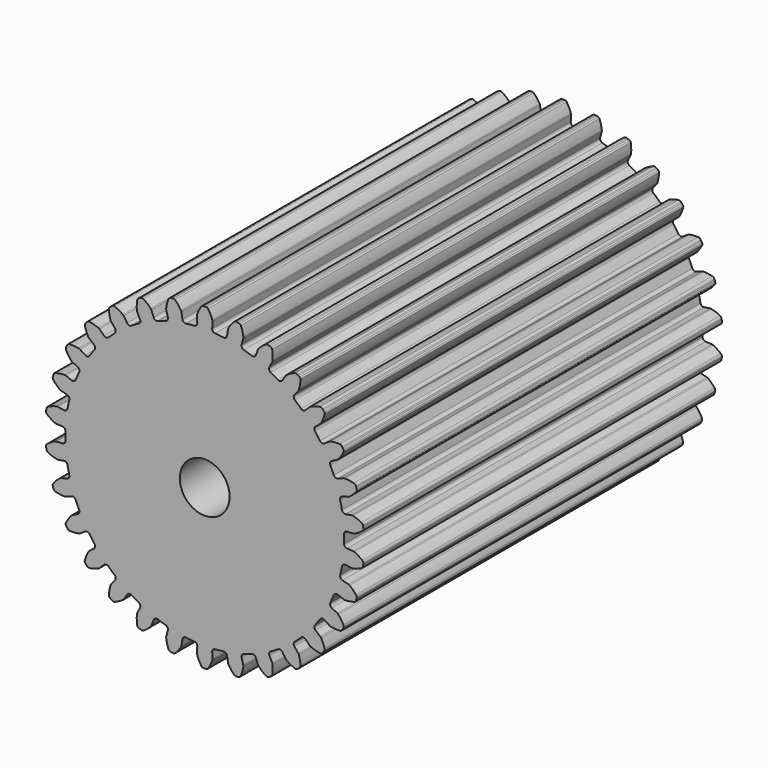
from build123d import *

# Parameters (mm, degrees)
F1_DEPTH = 114.3
F2_R     = 6.35
F3_DEPTH = 114.3


with BuildPart() as f1:
    # F0 (on Front) → F1 (new body)
    with BuildSketch(Plane.XZ):
        with BuildLine():
            ThreePointArc((-1.902155, 36.295274), (-2.099182, 35.729081), (-2.635978, 35.462166))
            ThreePointArc((-2.635978, 35.462166), (-3.717032, 35.365199), (-4.794623, 35.235283))
            ThreePointArc((-4.794623, 35.235283), (-5.375184, 35.38476), (-5.685624, 35.897615))
            Line((-5.685624, 35.897615), (-5.93658, 37.482089))
            ThreePointArc((-5.93658, 37.482089), (-5.974636, 37.629286), (-6.040058, 37.766527))
            ThreePointArc((-6.040058, 37.766527), (-6.746741, 38.786442), (-7.580008, 39.70584))
            ThreePointArc((-7.580008, 39.70584), (-7.788907, 39.827919), (-8.030583, 39.839518))
            Line((-8.030583, 39.839518), (-8.450744, 39.757623))
            Line((-8.450744, 39.757623), (-8.721103, 39.695352))
            ThreePointArc((-8.721103, 39.695352), (-9.063807, 39.520805), (-9.284229, 39.205643))
            ThreePointArc((-9.284229, 39.205643), (-9.632258, 38.098948), (-9.843162, 36.958152))
            ThreePointArc((-9.843162, 36.958152), (-9.847108, 36.806166), (-9.822004, 36.656217))
            Line((-9.822004, 36.656217), (-9.4068, 35.106655))
            ThreePointArc((-9.4068, 35.106655), (-9.481804, 34.511871), (-9.951375, 34.139182))
            ThreePointArc((-9.951375, 34.139182), (-10.988644, 33.81957), (-12.015677, 33.46845))
            ThreePointArc((-12.015677, 33.46845), (-12.614628, 33.493954), (-13.024913, 33.931059))
            Line((-13.024913, 33.931059), (-13.599816, 35.428731))
            ThreePointArc((-13.599816, 35.428731), (-13.667644, 35.564799), (-13.760171, 35.685439))
            ThreePointArc((-13.760171, 35.685439), (-14.663463, 36.536139), (-15.669675, 37.2622))
            ThreePointArc((-15.669675, 37.2622), (-15.899391, 37.338179), (-16.138197, 37.299277))
            Line((-16.138197, 37.299277), (-16.532149, 37.131815))
            Line((-16.532149, 37.131815), (-16.783654, 37.014694))
            ThreePointArc((-16.783654, 37.014694), (-17.082578, 36.772709), (-17.232658, 36.418606))
            ThreePointArc((-17.232658, 36.418606), (-17.342987, 35.263736), (-17.312098, 34.104019))
            ThreePointArc((-17.312098, 34.104019), (-17.284358, 33.954534), (-17.228625, 33.813081))
            Line((-17.228625, 33.813081), (-16.500323, 32.383707))
            ThreePointArc((-16.500323, 32.383707), (-16.450025, 31.786326), (-16.831848, 31.324152))
            ThreePointArc((-16.831848, 31.324152), (-17.78, 30.795863), (-18.711587, 30.238884))
            ThreePointArc((-18.711587, 30.238884), (-19.302753, 30.139302), (-19.794951, 30.481552))
            Line((-19.794951, 30.481552), (-20.668674, 31.826968))
            ThreePointArc((-20.668674, 31.826968), (-20.763311, 31.94596), (-20.878898, 32.044726))
            ThreePointArc((-20.878898, 32.044726), (-21.939321, 32.689032), (-23.074502, 33.190023))
            ThreePointArc((-23.074502, 33.190023), (-23.314995, 33.216581), (-23.540495, 33.128878))
            Line((-23.540495, 33.128878), (-23.891021, 32.883169))
            Line((-23.891021, 32.883169), (-24.112678, 32.716316))
            ThreePointArc((-24.112678, 32.716316), (-24.354759, 32.417469), (-24.427937, 32.039901))
            ThreePointArc((-24.427937, 32.039901), (-24.295744, 30.887329), (-24.024411, 29.759377))
            ThreePointArc((-24.024411, 29.759377), (-23.966198, 29.618926), (-23.882273, 29.492151))
            Line((-23.882273, 29.492151), (-22.872702, 28.245435))
            ThreePointArc((-22.872702, 28.245435), (-22.699301, 27.671566), (-22.976689, 27.140106))
            ThreePointArc((-22.976689, 27.140106), (-23.794284, 26.42623), (-24.589712, 25.687734))
            ThreePointArc((-24.589712, 25.687734), (-25.147255, 25.467418), (-25.699855, 25.699855))
            Line((-25.699855, 25.699855), (-26.834213, 26.834213))
            ThreePointArc((-26.834213, 26.834213), (-26.951521, 26.930929), (-27.085117, 27.003505))
            ThreePointArc((-27.085117, 27.003505), (-28.256326, 27.413256), (-29.470863, 27.667282))
            ThreePointArc((-29.470863, 27.667282), (-29.711622, 27.643259), (-29.913959, 27.510588))
            Line((-29.913959, 27.510588), (-30.20574, 27.19737))
            Line((-30.20574, 27.19737), (-30.387863, 26.988078))
            ThreePointArc((-30.387863, 26.988078), (-30.56252, 26.64543), (-30.555598, 26.260898))
            ThreePointArc((-30.555598, 26.260898), (-30.186661, 25.160997), (-29.686742, 24.114107))
            ThreePointArc((-29.686742, 24.114107), (-29.6006, 23.988829), (-29.492151, 23.882273))
            Line((-29.492151, 23.882273), (-28.245435, 22.872702))
            ThreePointArc((-28.245435, 22.872702), (-27.956509, 22.347426), (-28.117339, 21.769907))
            ThreePointArc((-28.117339, 21.769907), (-28.768644, 20.901644), (-29.393148, 20.013907))
            ThreePointArc((-29.393148, 20.013907), (-29.892701, 19.682486), (-30.481552, 19.794951))
            Line((-30.481552, 19.794951), (-31.826968, 20.668674))
            ThreePointArc((-31.826968, 20.668674), (-31.961821, 20.738887), (-32.107587, 20.782101))
            ThreePointArc((-32.107587, 20.782101), (-33.338394, 20.93939), (-34.579205, 20.935349))
            ThreePointArc((-34.579205, 20.935349), (-34.809708, 20.861794), (-34.980041, 20.689954))
            Line((-34.980041, 20.689954), (-35.200323, 20.322916))
            Line((-35.200323, 20.322916), (-35.334952, 20.080332))
            ThreePointArc((-35.334952, 20.080332), (-35.434552, 19.708859), (-35.347833, 19.334169))
            ThreePointArc((-35.347833, 19.334169), (-34.758275, 18.33501), (-34.051621, 17.414935))
            ThreePointArc((-34.051621, 17.414935), (-33.941314, 17.310305), (-33.813081, 17.228625))
            Line((-33.813081, 17.228625), (-32.383707, 16.500323))
            ThreePointArc((-32.383707, 16.500323), (-31.991883, 16.046596), (-32.029126, 15.448259))
            ThreePointArc((-32.029126, 15.448259), (-32.485676, 14.463555), (-32.911962, 13.465376))
            ThreePointArc((-32.911962, 13.465376), (-33.331693, 13.037334), (-33.931059, 13.024913))
            Line((-33.931059, 13.024913), (-35.428731, 13.599816))
            ThreePointArc((-35.428731, 13.599816), (-35.575235, 13.640457), (-35.726801, 13.652419))
            ThreePointArc((-35.726801, 13.652419), (-36.963415, 13.550372), (-38.17627, 13.28844))
            ThreePointArc((-38.17627, 13.28844), (-38.386443, 13.168568), (-38.517326, 12.96507))
            Line((-38.517326, 12.96507), (-38.656484, 12.560253))
            Line((-38.656484, 12.560253), (-38.737735, 12.294979))
            ThreePointArc((-38.737735, 12.294979), (-38.757924, 11.910915), (-38.595198, 11.562443))
            ThreePointArc((-38.595198, 11.562443), (-37.810786, 10.707694), (-36.92828, 9.954647))
            ThreePointArc((-36.92828, 9.954647), (-36.798629, 9.875237), (-36.656217, 9.822004))
            Line((-36.656217, 9.822004), (-35.106655, 9.4068))
            ThreePointArc((-35.106655, 9.4068), (-34.629059, 9.044452), (-34.541086, 8.451448))
            Line((-34.541086, 8.451448), (-34.992366, 6.328344))
            ThreePointArc((-34.992366, 6.328344), (-35.31393, 5.822389), (-35.897615, 5.685624))
            Line((-35.897615, 5.685624), (-37.482089, 5.93658))
            ThreePointArc((-37.482089, 5.93658), (-37.633841, 5.945873), (-37.784582, 5.926062))
            ThreePointArc((-37.784582, 5.926062), (-38.972956, 5.569138), (-40.104849, 5.060763))
            ThreePointArc((-40.104849, 5.060763), (-40.285507, 4.899813), (-40.37122, 4.673549))
            Line((-40.37122, 4.673549), (-40.42317, 4.248646))
            Line((-40.42317, 4.248646), (-40.447492, 3.972276))
            ThreePointArc((-40.447492, 3.972276), (-40.387389, 3.592407), (-40.155767, 3.285383))
            ThreePointArc((-40.155767, 3.285383), (-39.210785, 2.612401), (-38.190996, 2.059293))
            ThreePointArc((-38.190996, 2.059293), (-38.047668, 2.008575), (-37.8973, 1.986113))
            Line((-37.8973, 1.986113), (-36.295274, 1.902155))
            ThreePointArc((-36.295274, 1.902155), (-35.752778, 1.647023), (-35.543435, 1.085268))
            ThreePointArc((-35.543435, 1.085268), (-35.56, 0), (-35.543435, -1.085268))
            ThreePointArc((-35.543435, -1.085268), (-35.752778, -1.647023), (-36.295274, -1.902155))
            Line((-36.295274, -1.902155), (-37.8973, -1.986113))
            ThreePointArc((-37.8973, -1.986113), (-38.047668, -2.008575), (-38.190996, -2.059293))
            ThreePointArc((-38.190996, -2.059293), (-39.279192, -2.655494), (-40.280654, -3.388094))
            ThreePointArc((-40.280654, -3.388094), (-40.4239, -3.583087), (-40.460697, -3.822227))
            Line((-40.460697, -3.822227), (-40.42317, -4.248646))
            Line((-40.42317, -4.248646), (-40.3895, -4.524034))
            ThreePointArc((-40.3895, -4.524034), (-40.251731, -4.883106), (-39.961337, -5.135264))
            ThreePointArc((-39.961337, -5.135264), (-38.897084, -5.597067), (-37.784582, -5.926062))
            ThreePointArc((-37.784582, -5.926062), (-37.633841, -5.945873), (-37.482089, -5.93658))
            Line((-37.482089, -5.93658), (-35.897615, -5.685624))
            ThreePointArc((-35.897615, -5.685624), (-35.31393, -5.822389), (-34.992366, -6.328344))
            ThreePointArc((-34.992366, -6.328344), (-34.782929, -7.39334), (-34.541086, -8.451448))
            ThreePointArc((-34.541086, -8.451448), (-34.629059, -9.044452), (-35.106655, -9.4068))
            Line((-35.106655, -9.4068), (-36.656217, -9.822004))
            ThreePointArc((-36.656217, -9.822004), (-36.798629, -9.875237), (-36.92828, -9.954647))
            ThreePointArc((-36.92828, -9.954647), (-37.86874, -10.764068), (-38.696001, -11.688874))
            ThreePointArc((-38.696001, -11.688874), (-38.795575, -11.90939), (-38.781848, -12.150955))
            Line((-38.781848, -12.150955), (-38.656484, -12.560253))
            Line((-38.656484, -12.560253), (-38.566293, -12.822622))
            ThreePointArc((-38.566293, -12.822622), (-38.35688, -13.145204), (-38.020404, -13.331475))
            ThreePointArc((-38.020404, -13.331475), (-36.883393, -13.561916), (-35.726801, -13.652419))
            ThreePointArc((-35.726801, -13.652419), (-35.575235, -13.640457), (-35.428731, -13.599816))
            Line((-35.428731, -13.599816), (-33.931059, -13.024913))
            ThreePointArc((-33.931059, -13.024913), (-33.331693, -13.037334), (-32.911962, -13.465376))
            ThreePointArc((-32.911962, -13.465376), (-32.485676, -14.463555), (-32.029126, -15.448259))
            ThreePointArc((-32.029126, -15.448259), (-31.991883, -16.046596), (-32.383707, -16.500323))
            Line((-32.383707, -16.500323), (-33.813081, -17.228625))
            ThreePointArc((-33.813081, -17.228625), (-33.941314, -17.310305), (-34.051621, -17.414935))
            ThreePointArc((-34.051621, -17.414935), (-34.803241, -18.402201), (-35.420146, -19.478795))
            ThreePointArc((-35.420146, -19.478795), (-35.471697, -19.715195), (-35.408046, -19.948627))
            Line((-35.408046, -19.948627), (-35.200323, -20.322916))
            Line((-35.200323, -20.322916), (-35.057554, -20.5608))
            ThreePointArc((-35.057554, -20.5608), (-34.785648, -20.832793), (-34.417798, -20.945037))
            ThreePointArc((-34.417798, -20.945037), (-33.257722, -20.934045), (-32.107587, -20.782101))
            ThreePointArc((-32.107587, -20.782101), (-31.961821, -20.738887), (-31.826968, -20.668674))
            Line((-31.826968, -20.668674), (-30.481552, -19.794951))
            ThreePointArc((-30.481552, -19.794951), (-29.892701, -19.682486), (-29.393148, -20.013907))
            ThreePointArc((-29.393148, -20.013907), (-28.768644, -20.901644), (-28.117339, -21.769907))
            ThreePointArc((-28.117339, -21.769907), (-27.956509, -22.347426), (-28.245435, -22.872702))
            Line((-28.245435, -22.872702), (-29.492151, -23.882273))
            ThreePointArc((-29.492151, -23.882273), (-29.6006, -23.988829), (-29.686742, -24.114107))
            ThreePointArc((-29.686742, -24.114107), (-30.216674, -25.23607), (-30.596262, -26.4174))
            ThreePointArc((-30.596262, -26.4174), (-30.597536, -26.659351), (-30.486743, -26.874448))
            Line((-30.486743, -26.874448), (-30.20574, -27.19737))
            Line((-30.20574, -27.19737), (-30.016632, -27.400373))
            ThreePointArc((-30.016632, -27.400373), (-29.694117, -27.609889), (-29.310968, -27.6432))
            ThreePointArc((-29.310968, -27.6432), (-28.178528, -27.391255), (-27.085117, -27.003505))
            ThreePointArc((-27.085117, -27.003505), (-26.951521, -26.930929), (-26.834213, -26.834213))
            Line((-26.834213, -26.834213), (-25.699855, -25.699855))
            ThreePointArc((-25.699855, -25.699855), (-25.147255, -25.467418), (-24.589712, -25.687734))
            ThreePointArc((-24.589712, -25.687734), (-23.794284, -26.42623), (-22.976689, -27.140106))
            ThreePointArc((-22.976689, -27.140106), (-22.699301, -27.671566), (-22.872702, -28.245435))
            Line((-22.872702, -28.245435), (-23.882273, -29.492151))
            ThreePointArc((-23.882273, -29.492151), (-23.966198, -29.618926), (-24.024411, -29.759377))
            ThreePointArc((-24.024411, -29.759377), (-24.309493, -30.967001), (-24.435174, -32.201437))
            ThreePointArc((-24.435174, -32.201437), (-24.386116, -32.438365), (-24.233022, -32.625727))
            Line((-24.233022, -32.625727), (-23.891021, -32.883169))
            Line((-23.891021, -32.883169), (-23.663838, -33.042418))
            ThreePointArc((-23.663838, -33.042418), (-23.304811, -33.180301), (-22.923109, -33.133223))
            ThreePointArc((-22.923109, -33.133223), (-21.867798, -32.651335), (-20.878898, -32.044726))
            ThreePointArc((-20.878898, -32.044726), (-20.763311, -31.94596), (-20.668674, -31.826968))
            Line((-20.668674, -31.826968), (-19.794951, -30.481552))
            ThreePointArc((-19.794951, -30.481552), (-19.302753, -30.139302), (-18.711587, -30.238884))
            ThreePointArc((-18.711587, -30.238884), (-17.78, -30.795863), (-16.831848, -31.324152))
            ThreePointArc((-16.831848, -31.324152), (-16.450025, -31.786326), (-16.500323, -32.383707))
            Line((-16.500323, -32.383707), (-17.228625, -33.813081))
            ThreePointArc((-17.228625, -33.813081), (-17.284358, -33.954534), (-17.312098, -34.104019))
            ThreePointArc((-17.312098, -34.104019), (-17.339871, -35.344525), (-17.206152, -36.578116))
            ThreePointArc((-17.206152, -36.578116), (-17.108905, -36.799668), (-16.920203, -36.951105))
            Line((-16.920203, -36.951105), (-16.532149, -37.131815))
            Line((-16.532149, -37.131815), (-16.276822, -37.24035))
            ThreePointArc((-16.276822, -37.24035), (-15.896972, -37.300575), (-15.533399, -37.175165))
            ThreePointArc((-15.533399, -37.175165), (-14.601339, -36.484396), (-13.760171, -35.685439))
            ThreePointArc((-13.760171, -35.685439), (-13.667644, -35.564799), (-13.599816, -35.428731))
            Line((-13.599816, -35.428731), (-13.024913, -33.931059))
            ThreePointArc((-13.024913, -33.931059), (-12.614628, -33.493954), (-12.015677, -33.46845))
            ThreePointArc((-12.015677, -33.46845), (-10.988644, -33.81957), (-9.951375, -34.139182))
            ThreePointArc((-9.951375, -34.139182), (-9.481804, -34.511871), (-9.4068, -35.106655))
            Line((-9.4068, -35.106655), (-9.822004, -36.656217))
            ThreePointArc((-9.822004, -36.656217), (-9.847108, -36.806166), (-9.843162, -36.958152))
            ThreePointArc((-9.843162, -36.958152), (-9.612413, -38.177325), (-9.225138, -39.356157))
            ThreePointArc((-9.225138, -39.356157), (-9.083954, -39.552648), (-8.867889, -39.661543))
            Line((-8.867889, -39.661543), (-8.450744, -39.757623))
            Line((-8.450744, -39.757623), (-8.17843, -39.810701))
            ThreePointArc((-8.17843, -39.810701), (-7.79436, -39.790634), (-7.464806, -39.592373))
            ThreePointArc((-7.464806, -39.592373), (-6.696733, -38.722914), (-6.040058, -37.766527))
            ThreePointArc((-6.040058, -37.766527), (-5.974636, -37.629286), (-5.93658, -37.482089))
            Line((-5.93658, -37.482089), (-5.685624, -35.897615))
            ThreePointArc((-5.685624, -35.897615), (-5.375184, -35.38476), (-4.794623, -35.235283))
            ThreePointArc((-4.794623, -35.235283), (-3.717032, -35.365199), (-2.635978, -35.462166))
            ThreePointArc((-2.635978, -35.462166), (-2.099182, -35.729081), (-1.902155, -36.295274))
            Line((-1.902155, -36.295274), (-1.986113, -37.8973))
            ThreePointArc((-1.986113, -37.8973), (-1.979493, -38.049192), (-1.944034, -38.197036))
            ThreePointArc((-1.944034, -38.197036), (-1.464847, -39.341592), (-0.840942, -40.414144))
            ThreePointArc((-0.840942, -40.414144), (-0.661989, -40.576988), (-0.428006, -40.638581))
            Line((-0.428006, -40.638581), (0, -40.645832))
            Line((0, -40.645832), (0.277398, -40.641133))
            ThreePointArc((0.277398, -40.641133), (0.648904, -40.541652), (0.930035, -40.279206))
            ThreePointArc((0.930035, -40.279206), (1.500554, -39.269054), (1.944034, -38.197036))
            ThreePointArc((1.944034, -38.197036), (1.979493, -38.049192), (1.986113, -37.8973))
            Line((1.986113, -37.8973), (1.902155, -36.295274))
            ThreePointArc((1.902155, -36.295274), (2.099182, -35.729081), (2.635978, -35.462166))
            ThreePointArc((2.635978, -35.462166), (3.717032, -35.365199), (4.794623, -35.235283))
            ThreePointArc((4.794623, -35.235283), (5.375184, -35.38476), (5.685624, -35.897615))
            Line((5.685624, -35.897615), (5.93658, -37.482089))
            ThreePointArc((5.93658, -37.482089), (5.974636, -37.629286), (6.040058, -37.766527))
            ThreePointArc((6.040058, -37.766527), (6.746741, -38.786442), (7.580008, -39.70584))
            ThreePointArc((7.580008, -39.70584), (7.788907, -39.827919), (8.030583, -39.839518))
            Line((8.030583, -39.839518), (8.450744, -39.757623))
            Line((8.450744, -39.757623), (8.721103, -39.695352))
            ThreePointArc((8.721103, -39.695352), (9.063807, -39.520805), (9.284229, -39.205643))
            ThreePointArc((9.284229, -39.205643), (9.632258, -38.098948), (9.843162, -36.958152))
            ThreePointArc((9.843162, -36.958152), (9.847108, -36.806166), (9.822004, -36.656217))
            Line((9.822004, -36.656217), (9.4068, -35.106655))
            ThreePointArc((9.4068, -35.106655), (9.481804, -34.511871), (9.951375, -34.139182))
            ThreePointArc((9.951375, -34.139182), (10.988644, -33.81957), (12.015677, -33.46845))
            ThreePointArc((12.015677, -33.46845), (12.614628, -33.493954), (13.024913, -33.931059))
            Line((13.024913, -33.931059), (13.599816, -35.428731))
            ThreePointArc((13.599816, -35.428731), (13.667644, -35.564799), (13.760171, -35.685439))
            ThreePointArc((13.760171, -35.685439), (14.663463, -36.536139), (15.669675, -37.2622))
            ThreePointArc((15.669675, -37.2622), (15.899391, -37.338179), (16.138197, -37.299277))
            Line((16.138197, -37.299277), (16.532149, -37.131815))
            Line((16.532149, -37.131815), (16.783654, -37.014694))
            ThreePointArc((16.783654, -37.014694), (17.082578, -36.772709), (17.232658, -36.418606))
            ThreePointArc((17.232658, -36.418606), (17.342987, -35.263736), (17.312098, -34.104019))
            ThreePointArc((17.312098, -34.104019), (17.284358, -33.954534), (17.228625, -33.813081))
            Line((17.228625, -33.813081), (16.500323, -32.383707))
            ThreePointArc((16.500323, -32.383707), (16.450025, -31.786326), (16.831848, -31.324152))
            ThreePointArc((16.831848, -31.324152), (17.78, -30.795863), (18.711587, -30.238884))
            ThreePointArc((18.711587, -30.238884), (19.302753, -30.139302), (19.794951, -30.481552))
            Line((19.794951, -30.481552), (20.668674, -31.826968))
            ThreePointArc((20.668674, -31.826968), (20.763311, -31.94596), (20.878898, -32.044726))
            ThreePointArc((20.878898, -32.044726), (21.939321, -32.689032), (23.074502, -33.190023))
            ThreePointArc((23.074502, -33.190023), (23.314995, -33.216581), (23.540495, -33.128878))
            Line((23.540495, -33.128878), (23.891021, -32.883169))
            Line((23.891021, -32.883169), (24.112678, -32.716316))
            ThreePointArc((24.112678, -32.716316), (24.354759, -32.417469), (24.427937, -32.039901))
            ThreePointArc((24.427937, -32.039901), (24.295744, -30.887329), (24.024411, -29.759377))
            ThreePointArc((24.024411, -29.759377), (23.966198, -29.618926), (23.882273, -29.492151))
            Line((23.882273, -29.492151), (22.872702, -28.245435))
            ThreePointArc((22.872702, -28.245435), (22.699301, -27.671566), (22.976689, -27.140106))
            ThreePointArc((22.976689, -27.140106), (23.794284, -26.42623), (24.589712, -25.687734))
            ThreePointArc((24.589712, -25.687734), (25.147255, -25.467418), (25.699855, -25.699855))
            Line((25.699855, -25.699855), (26.834213, -26.834213))
            ThreePointArc((26.834213, -26.834213), (26.951521, -26.930929), (27.085117, -27.003505))
            ThreePointArc((27.085117, -27.003505), (28.256326, -27.413256), (29.470863, -27.667282))
            ThreePointArc((29.470863, -27.667282), (29.711622, -27.643259), (29.913959, -27.510588))
            Line((29.913959, -27.510588), (30.20574, -27.19737))
            Line((30.20574, -27.19737), (30.387863, -26.988078))
            ThreePointArc((30.387863, -26.988078), (30.56252, -26.64543), (30.555598, -26.260898))
            ThreePointArc((30.555598, -26.260898), (30.186661, -25.160997), (29.686742, -24.114107))
            ThreePointArc((29.686742, -24.114107), (29.6006, -23.988829), (29.492151, -23.882273))
            Line((29.492151, -23.882273), (28.245435, -22.872702))
            ThreePointArc((28.245435, -22.872702), (27.956509, -22.347426), (28.117339, -21.769907))
            ThreePointArc((28.117339, -21.769907), (28.768644, -20.901644), (29.393148, -20.013907))
            ThreePointArc((29.393148, -20.013907), (29.892701, -19.682486), (30.481552, -19.794951))
            Line((30.481552, -19.794951), (31.826968, -20.668674))
            ThreePointArc((31.826968, -20.668674), (31.961821, -20.738887), (32.107587, -20.782101))
            ThreePointArc((32.107587, -20.782101), (33.338394, -20.93939), (34.579205, -20.935349))
            ThreePointArc((34.579205, -20.935349), (34.809708, -20.861794), (34.980041, -20.689954))
            Line((34.980041, -20.689954), (35.200323, -20.322916))
            Line((35.200323, -20.322916), (35.334952, -20.080332))
            ThreePointArc((35.334952, -20.080332), (35.434552, -19.708859), (35.347833, -19.334169))
            ThreePointArc((35.347833, -19.334169), (34.758275, -18.33501), (34.051621, -17.414935))
            ThreePointArc((34.051621, -17.414935), (33.941314, -17.310305), (33.813081, -17.228625))
            Line((33.813081, -17.228625), (32.383707, -16.500323))
            ThreePointArc((32.383707, -16.500323), (31.991883, -16.046596), (32.029126, -15.448259))
            ThreePointArc((32.029126, -15.448259), (32.485676, -14.463555), (32.911962, -13.465376))
            ThreePointArc((32.911962, -13.465376), (33.331693, -13.037334), (33.931059, -13.024913))
            Line((33.931059, -13.024913), (35.428731, -13.599816))
            ThreePointArc((35.428731, -13.599816), (35.575235, -13.640457), (35.726801, -13.652419))
            ThreePointArc((35.726801, -13.652419), (36.963415, -13.550372), (38.17627, -13.28844))
            ThreePointArc((38.17627, -13.28844), (38.386443, -13.168568), (38.517326, -12.96507))
            Line((38.517326, -12.96507), (38.656484, -12.560253))
            Line((38.656484, -12.560253), (38.737735, -12.294979))
            ThreePointArc((38.737735, -12.294979), (38.757924, -11.910915), (38.595198, -11.562443))
            ThreePointArc((38.595198, -11.562443), (37.810786, -10.707694), (36.92828, -9.954647))
            ThreePointArc((36.92828, -9.954647), (36.798629, -9.875237), (36.656217, -9.822004))
            Line((36.656217, -9.822004), (35.106655, -9.4068))
            ThreePointArc((35.106655, -9.4068), (34.629059, -9.044452), (34.541086, -8.451448))
            ThreePointArc((34.541086, -8.451448), (34.782929, -7.39334), (34.992366, -6.328344))
            ThreePointArc((34.992366, -6.328344), (35.31393, -5.822389), (35.897615, -5.685624))
            Line((35.897615, -5.685624), (37.482089, -5.93658))
            ThreePointArc((37.482089, -5.93658), (37.633841, -5.945873), (37.784582, -5.926062))
            ThreePointArc((37.784582, -5.926062), (38.972956, -5.569138), (40.104849, -5.060763))
            ThreePointArc((40.104849, -5.060763), (40.285507, -4.899813), (40.37122, -4.673549))
            Line((40.37122, -4.673549), (40.42317, -4.248646))
            Line((40.42317, -4.248646), (40.447492, -3.972276))
            ThreePointArc((40.447492, -3.972276), (40.387389, -3.592407), (40.155767, -3.285383))
            ThreePointArc((40.155767, -3.285383), (39.210785, -2.612401), (38.190996, -2.059293))
            ThreePointArc((38.190996, -2.059293), (38.047668, -2.008575), (37.8973, -1.986113))
            Line((37.8973, -1.986113), (36.295274, -1.902155))
            ThreePointArc((36.295274, -1.902155), (35.752778, -1.647023), (35.543435, -1.085268))
            ThreePointArc((35.543435, -1.085268), (35.56, 0), (35.543435, 1.085268))
            ThreePointArc((35.543435, 1.085268), (35.752778, 1.647023), (36.295274, 1.902155))
            Line((36.295274, 1.902155), (37.8973, 1.986113))
            ThreePointArc((37.8973, 1.986113), (38.047668, 2.008575), (38.190996, 2.059293))
            ThreePointArc((38.190996, 2.059293), (39.279192, 2.655494), (40.280654, 3.388094))
            ThreePointArc((40.280654, 3.388094), (40.4239, 3.583087), (40.460697, 3.822227))
            Line((40.460697, 3.822227), (40.42317, 4.248646))
            Line((40.42317, 4.248646), (40.3895, 4.524034))
            ThreePointArc((40.3895, 4.524034), (40.251731, 4.883106), (39.961337, 5.135264))
            ThreePointArc((39.961337, 5.135264), (38.897084, 5.597067), (37.784582, 5.926062))
            ThreePointArc((37.784582, 5.926062), (37.633841, 5.945873), (37.482089, 5.93658))
            Line((37.482089, 5.93658), (35.897615, 5.685624))
            ThreePointArc((35.897615, 5.685624), (35.31393, 5.822389), (34.992366, 6.328344))
            ThreePointArc((34.992366, 6.328344), (34.782929, 7.39334), (34.541086, 8.451448))
            ThreePointArc((34.541086, 8.451448), (34.629059, 9.044452), (35.106655, 9.4068))
            Line((35.106655, 9.4068), (36.656217, 9.822004))
            ThreePointArc((36.656217, 9.822004), (36.798629, 9.875237), (36.92828, 9.954647))
            ThreePointArc((36.92828, 9.954647), (37.86874, 10.764068), (38.696001, 11.688874))
            ThreePointArc((38.696001, 11.688874), (38.795575, 11.90939), (38.781848, 12.150955))
            Line((38.781848, 12.150955), (38.656484, 12.560253))
            Line((38.656484, 12.560253), (38.566293, 12.822622))
            ThreePointArc((38.566293, 12.822622), (38.35688, 13.145204), (38.020404, 13.331475))
            ThreePointArc((38.020404, 13.331475), (36.883393, 13.561916), (35.726801, 13.652419))
            ThreePointArc((35.726801, 13.652419), (35.575235, 13.640457), (35.428731, 13.599816))
            Line((35.428731, 13.599816), (33.931059, 13.024913))
            ThreePointArc((33.931059, 13.024913), (33.331693, 13.037334), (32.911962, 13.465376))
            Line((32.911962, 13.465376), (32.029126, 15.448259))
            ThreePointArc((32.029126, 15.448259), (31.991883, 16.046596), (32.383707, 16.500323))
            Line((32.383707, 16.500323), (33.813081, 17.228625))
            ThreePointArc((33.813081, 17.228625), (33.941314, 17.310305), (34.051621, 17.414935))
            ThreePointArc((34.051621, 17.414935), (34.803241, 18.402201), (35.420146, 19.478795))
            ThreePointArc((35.420146, 19.478795), (35.471697, 19.715195), (35.408046, 19.948627))
            Line((35.408046, 19.948627), (35.200323, 20.322916))
            Line((35.200323, 20.322916), (35.057554, 20.5608))
            ThreePointArc((35.057554, 20.5608), (34.785648, 20.832793), (34.417798, 20.945037))
            ThreePointArc((34.417798, 20.945037), (33.257722, 20.934045), (32.107587, 20.782101))
            ThreePointArc((32.107587, 20.782101), (31.961821, 20.738887), (31.826968, 20.668674))
            Line((31.826968, 20.668674), (30.481552, 19.794951))
            ThreePointArc((30.481552, 19.794951), (29.892701, 19.682486), (29.393148, 20.013907))
            ThreePointArc((29.393148, 20.013907), (28.768644, 20.901644), (28.117339, 21.769907))
            ThreePointArc((28.117339, 21.769907), (27.956509, 22.347426), (28.245435, 22.872702))
            Line((28.245435, 22.872702), (29.492151, 23.882273))
            ThreePointArc((29.492151, 23.882273), (29.6006, 23.988829), (29.686742, 24.114107))
            ThreePointArc((29.686742, 24.114107), (30.216674, 25.23607), (30.596262, 26.4174))
            ThreePointArc((30.596262, 26.4174), (30.597536, 26.659351), (30.486743, 26.874448))
            Line((30.486743, 26.874448), (30.20574, 27.19737))
            Line((30.20574, 27.19737), (30.016632, 27.400373))
            ThreePointArc((30.016632, 27.400373), (29.694117, 27.609889), (29.310968, 27.6432))
            ThreePointArc((29.310968, 27.6432), (28.178528, 27.391255), (27.085117, 27.003505))
            ThreePointArc((27.085117, 27.003505), (26.951521, 26.930929), (26.834213, 26.834213))
            Line((26.834213, 26.834213), (25.699855, 25.699855))
            ThreePointArc((25.699855, 25.699855), (25.147255, 25.467418), (24.589712, 25.687734))
            ThreePointArc((24.589712, 25.687734), (23.794284, 26.42623), (22.976689, 27.140106))
            ThreePointArc((22.976689, 27.140106), (22.699301, 27.671566), (22.872702, 28.245435))
            Line((22.872702, 28.245435), (23.882273, 29.492151))
            ThreePointArc((23.882273, 29.492151), (23.966198, 29.618926), (24.024411, 29.759377))
            ThreePointArc((24.024411, 29.759377), (24.309493, 30.967001), (24.435174, 32.201437))
            ThreePointArc((24.435174, 32.201437), (24.386116, 32.438365), (24.233022, 32.625727))
            Line((24.233022, 32.625727), (23.891021, 32.883169))
            Line((23.891021, 32.883169), (23.663838, 33.042418))
            ThreePointArc((23.663838, 33.042418), (23.304811, 33.180301), (22.923109, 33.133223))
            ThreePointArc((22.923109, 33.133223), (21.867798, 32.651335), (20.878898, 32.044726))
            ThreePointArc((20.878898, 32.044726), (20.763311, 31.94596), (20.668674, 31.826968))
            Line((20.668674, 31.826968), (19.794951, 30.481552))
            ThreePointArc((19.794951, 30.481552), (19.302753, 30.139302), (18.711587, 30.238884))
            ThreePointArc((18.711587, 30.238884), (17.78, 30.795863), (16.831848, 31.324152))
            ThreePointArc((16.831848, 31.324152), (16.450025, 31.786326), (16.500323, 32.383707))
            Line((16.500323, 32.383707), (17.228625, 33.813081))
            ThreePointArc((17.228625, 33.813081), (17.284358, 33.954534), (17.312098, 34.104019))
            ThreePointArc((17.312098, 34.104019), (17.339871, 35.344525), (17.206152, 36.578116))
            ThreePointArc((17.206152, 36.578116), (17.108905, 36.799668), (16.920203, 36.951105))
            Line((16.920203, 36.951105), (16.532149, 37.131815))
            Line((16.532149, 37.131815), (16.276822, 37.24035))
            ThreePointArc((16.276822, 37.24035), (15.896972, 37.300575), (15.533399, 37.175165))
            ThreePointArc((15.533399, 37.175165), (14.601339, 36.484396), (13.760171, 35.685439))
            ThreePointArc((13.760171, 35.685439), (13.667644, 35.564799), (13.599816, 35.428731))
            Line((13.599816, 35.428731), (13.024913, 33.931059))
            ThreePointArc((13.024913, 33.931059), (12.614628, 33.493954), (12.015677, 33.46845))
            ThreePointArc((12.015677, 33.46845), (10.988644, 33.81957), (9.951375, 34.139182))
            ThreePointArc((9.951375, 34.139182), (9.481804, 34.511871), (9.4068, 35.106655))
            Line((9.4068, 35.106655), (9.822004, 36.656217))
            ThreePointArc((9.822004, 36.656217), (9.847108, 36.806166), (9.843162, 36.958152))
            ThreePointArc((9.843162, 36.958152), (9.612413, 38.177325), (9.225138, 39.356157))
            ThreePointArc((9.225138, 39.356157), (9.083954, 39.552648), (8.867889, 39.661543))
            Line((8.867889, 39.661543), (8.450744, 39.757623))
            Line((8.450744, 39.757623), (8.17843, 39.810701))
            ThreePointArc((8.17843, 39.810701), (7.79436, 39.790634), (7.464806, 39.592373))
            ThreePointArc((7.464806, 39.592373), (6.696733, 38.722914), (6.040058, 37.766527))
            ThreePointArc((6.040058, 37.766527), (5.974636, 37.629286), (5.93658, 37.482089))
            Line((5.93658, 37.482089), (5.685624, 35.897615))
            ThreePointArc((5.685624, 35.897615), (5.375184, 35.38476), (4.794623, 35.235283))
            ThreePointArc((4.794623, 35.235283), (3.717032, 35.365199), (2.635978, 35.462166))
            ThreePointArc((2.635978, 35.462166), (2.099182, 35.729081), (1.902155, 36.295274))
            Line((1.902155, 36.295274), (1.986113, 37.8973))
            ThreePointArc((1.986113, 37.8973), (1.979493, 38.049192), (1.944034, 38.197036))
            ThreePointArc((1.944034, 38.197036), (1.464847, 39.341592), (0.840942, 40.414144))
            ThreePointArc((0.840942, 40.414144), (0.661989, 40.576988), (0.428006, 40.638581))
            Line((0.428006, 40.638581), (0, 40.645832))
            Line((0, 40.645832), (-0.277398, 40.641133))
            ThreePointArc((-0.277398, 40.641133), (-0.648904, 40.541652), (-0.930035, 40.279206))
            ThreePointArc((-0.930035, 40.279206), (-1.500554, 39.269054), (-1.944034, 38.197036))
            ThreePointArc((-1.944034, 38.197036), (-1.979493, 38.049192), (-1.986113, 37.8973))
            Line((-1.986113, 37.8973), (-1.902155, 36.295274))
        make_face()
    extrude(amount=F1_DEPTH)

    # F2 (on face) → F3 (cut)
    with BuildSketch(Plane.XZ.offset(114.3)):
        Circle(F2_R)
    extrude(amount=-F3_DEPTH, mode=Mode.SUBTRACT)


solid = f1.part
